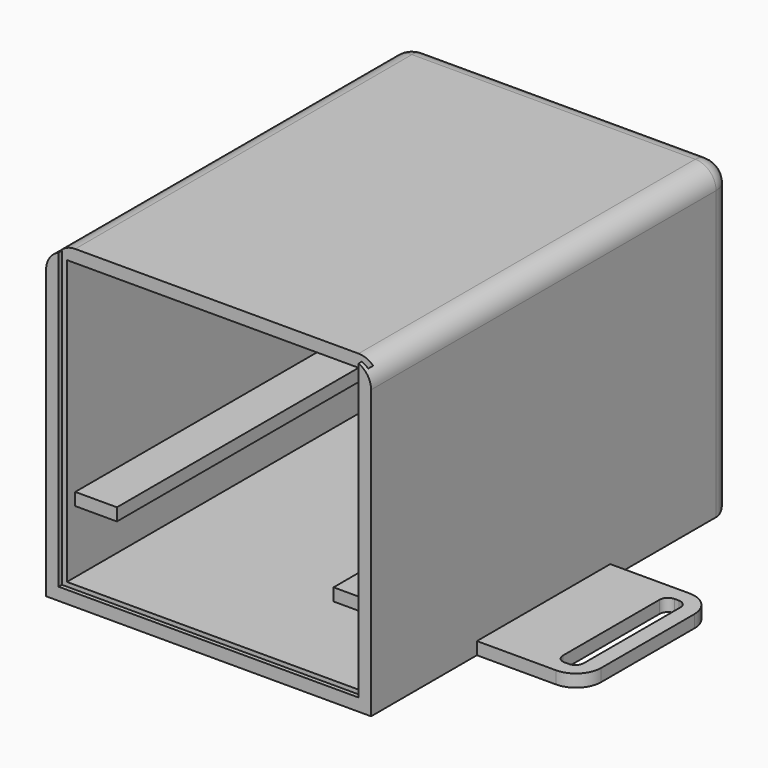
from build123d import *

# Parameters (mm, degrees)
BOX_W           = 78
BOX_H           = 108.5
BOX_DEPTH       = 74
SKETCH_W        = 72
SKETCH_H        = 50
POCKET_DEPTH    = 105.5
SKETCH001_W     = 72
SKETCH001_H     = 15
POCKET001_DEPTH = 105.5
SKETCH002_W     = 52
SKETCH002_H     = 3
POCKET002_DEPTH = 105.5
SKETCH008_W     = 75
SKETCH008_H     = 1.5
POCKET005_DEPTH = 72
SKETCH009_W     = 10
SKETCH009_H     = 3
POCKET006_DEPTH = 5
SKETCH010_W     = 10
SKETCH010_H     = 3
POCKET007_DEPTH = 5
SKETCH011_W     = 72
SKETCH011_H     = 3
POCKET008_DEPTH = 2.5
FILLET_R        = 5
SKETCH018_W     = 40
SKETCH018_H     = 3
PAD_DEPTH       = 25
SKETCH019_W     = 40
SKETCH019_H     = 3
PAD001_DEPTH    = 25
SKETCH020_W     = 5
SKETCH020_H     = 33
POCKET010_DEPTH = 3.001
SKETCH021_W     = 5
SKETCH021_H     = 33
POCKET011_DEPTH = 3.001
FILLET002_R     = 2
FILLET003_R     = 6


with BuildPart() as part:
    # Box → Box (new body)
    with BuildSketch(Plane.XY):
        with Locations((39, 54.25)):
            Rectangle(BOX_W, BOX_H)
    extrude(amount=BOX_DEPTH)

    # Sketch (on Face3 of BaseFeature) → Pocket (cut)
    with BuildSketch(Plane.XZ):
        with Locations((39, 46)):
            Rectangle(SKETCH_W, SKETCH_H)
    extrude(amount=-POCKET_DEPTH, mode=Mode.SUBTRACT)

    # Sketch001 (on Face2 of Pocket) → Pocket001 (cut)
    with BuildSketch(Plane.XZ):
        with Locations((39, 10.5)):
            Rectangle(SKETCH001_W, SKETCH001_H)
    extrude(amount=-POCKET001_DEPTH, mode=Mode.SUBTRACT)

    # Sketch002 (on Face2 of Pocket001) → Pocket002 (cut)
    with BuildSketch(Plane.XZ):
        with Locations((39, 19.5)):
            Rectangle(SKETCH002_W, SKETCH002_H)
    extrude(amount=-POCKET002_DEPTH, mode=Mode.SUBTRACT)

    # Sketch008 (on Face3 of Pocket002) → Pocket005 (cut)
    with BuildSketch(Plane.XY.offset(74)):
        with Locations((39, 1.75)):
            Rectangle(SKETCH008_W, SKETCH008_H)
    extrude(amount=-POCKET005_DEPTH, mode=Mode.SUBTRACT)

    # Sketch009 (on Face2 of Pocket005) → Pocket006 (cut)
    with BuildSketch(Plane.XZ):
        with Locations((8, 19.5)):
            Rectangle(SKETCH009_W, SKETCH009_H)
    extrude(amount=-POCKET006_DEPTH, mode=Mode.SUBTRACT)

    # Sketch010 (on Face2 of Pocket006) → Pocket007 (cut)
    with BuildSketch(Plane.XZ):
        with Locations((70, 19.5)):
            Rectangle(SKETCH010_W, SKETCH010_H)
    extrude(amount=-POCKET007_DEPTH, mode=Mode.SUBTRACT)

    # Sketch011 (on Face2 of Pocket007) → Pocket008 (cut)
    with BuildSketch(Plane.XZ):
        with Locations((39, 72.5)):
            Rectangle(SKETCH011_W, SKETCH011_H)
    extrude(amount=-POCKET008_DEPTH, mode=Mode.SUBTRACT)

    # Fillet
    fillet_edges = [part.edges().sort_by_distance(p)[0] for p in [
        (39, 108.5, 74),
        (78, 108.5, 37),
        (39, 108.5, 0),
        (0, 108.5, 37),
        (78, 54.25, 74),
        (0, 54.25, 74),
    ]]
    fillet(fillet_edges, radius=FILLET_R)

    # Sketch018 (on Face6 of Fillet) → Pad (join)
    with BuildSketch(Plane.YZ.offset(78)):
        with Locations((51.75, 1.5)):
            Rectangle(SKETCH018_W, SKETCH018_H)
    extrude(amount=PAD_DEPTH)

    # Sketch019 (on Face1 of Pad) → Pad001 (join)
    with BuildSketch(Plane(origin=(0, 0, 0), x_dir=(0, -1, 0), z_dir=(-1, 0, 0))):
        with Locations((-51.75, 1.5)):
            Rectangle(SKETCH019_W, SKETCH019_H)
    extrude(amount=PAD001_DEPTH)

    # Sketch020 (on Face32 of Pad001) → Pocket010 (cut, through all)
    with BuildSketch(Plane.XY.offset(3)):
        with Locations((96.75, 51.75)):
            Rectangle(SKETCH020_W, SKETCH020_H)
    extrude(amount=-POCKET010_DEPTH, mode=Mode.SUBTRACT)

    # Sketch021 (on Face6 of Pocket010) → Pocket011 (cut, through all)
    with BuildSketch(Plane.XY.offset(3)):
        with Locations((-18.75, 51.75)):
            Rectangle(SKETCH021_W, SKETCH021_H)
    extrude(amount=-POCKET011_DEPTH, mode=Mode.SUBTRACT)

    # Fillet002
    fillet002_edges = [part.edges().sort_by_distance(p)[0] for p in [
        (99.25, 68.25, 1.5),
        (99.25, 35.25, 1.5),
        (94.25, 35.25, 1.5),
        (94.25, 68.25, 1.5),
        (-21.25, 68.25, 1.5),
        (-16.25, 68.25, 1.5),
        (-16.25, 35.25, 1.5),
        (-21.25, 35.25, 1.5),
    ]]
    fillet(fillet002_edges, radius=FILLET002_R)

    # Fillet003
    fillet003_edges = [part.edges().sort_by_distance(p)[0] for p in [
        (103, 71.75, 1.5),
        (103, 31.75, 1.5),
        (-25, 71.75, 1.5),
        (-25, 31.75, 1.5),
    ]]
    fillet(fillet003_edges, radius=FILLET003_R)


solid = part.part
